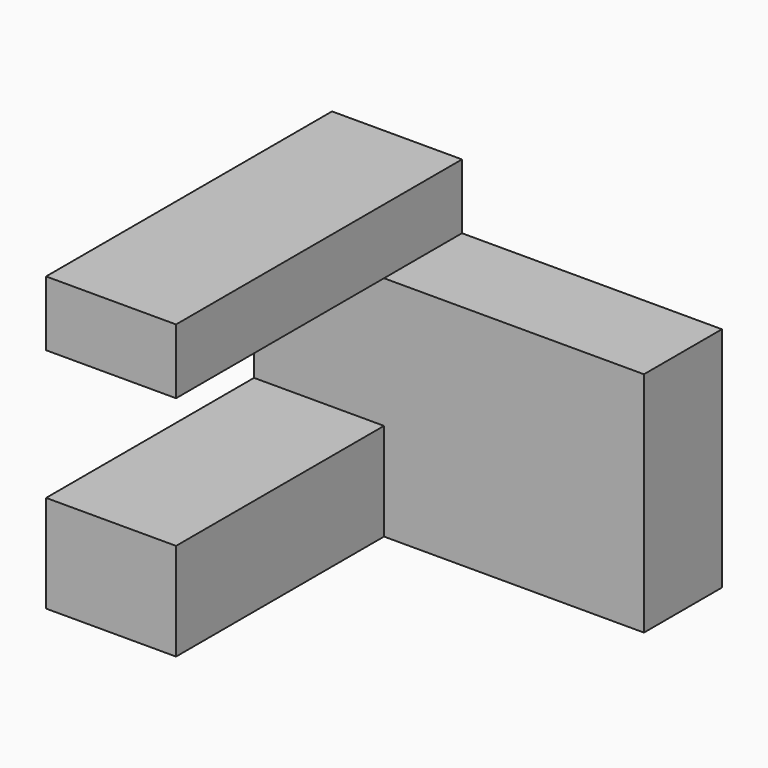
from build123d import *

# Parameters (mm, degrees)
F0_W     = 40
F0_H     = 15
F1_DEPTH = 60
F2_W     = 40
F2_H     = 40
F3_DEPTH = 45.001
F4_W     = 40
F4_H     = 10
F5_DEPTH = 25


with BuildPart() as f1:
    # F0 (on Right) → F1 (new body)
    with BuildSketch(Plane.YZ):
        Polygon((-15, 0), (0, 0), (0, 27.873229), (-15, 27.873229), (-15, 15), align=None)
        with Locations((-35, 7.5)):
            Rectangle(F0_W, F0_H)
        Polygon((-15, 27.873229), (0, 27.873229), (0, 45), (-55, 45), (-55, 35), (-15, 35), align=None)
    extrude(amount=F1_DEPTH)

    # F2 (on face) → F3 (cut, through all)
    with BuildSketch(Plane.XY.offset(45)):
        with Locations((40, -35)):
            Rectangle(F2_W, F2_H)
    extrude(amount=-F3_DEPTH, mode=Mode.SUBTRACT)

    # F4 (on face) → F5 (cut)
    with BuildSketch(Plane.XZ.offset(15)):
        with Locations((40, 40)):
            Rectangle(F4_W, F4_H)
    extrude(amount=-F5_DEPTH, mode=Mode.SUBTRACT)


solid = f1.part
